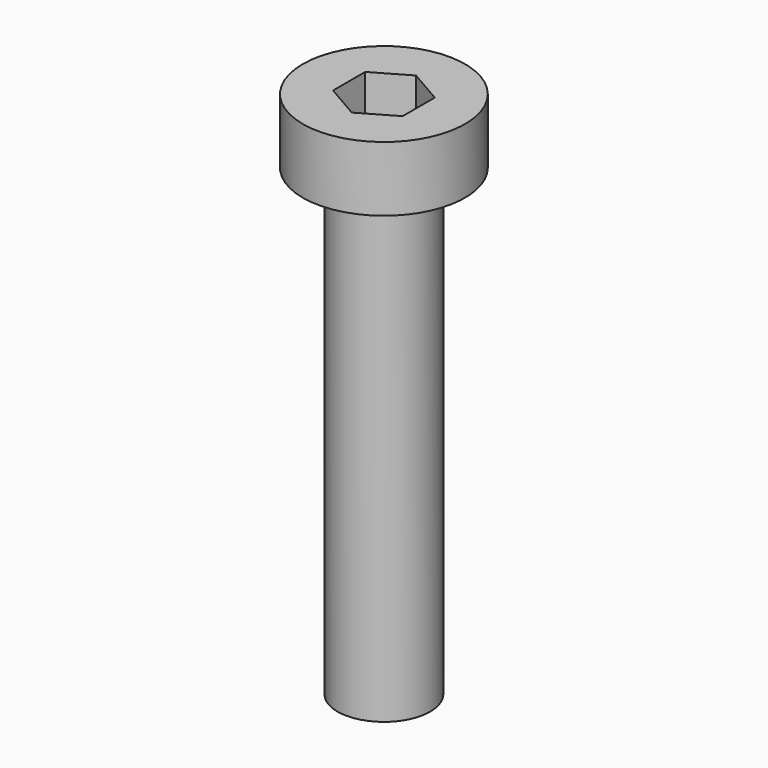
from build123d import *

# Parameters (mm, degrees)
CYLINDER024_R                      = 2
CYLINDER024_DEPTH                  = 22.8
CYLINDER023_R                      = 3.5
CYLINDER023_DEPTH                  = 2.8
FUSION001018017022_PLACEMENT_ANGLE = 180
POCKET002018004005005_DEPTH        = 2.5


with BuildPart() as cylinder024:
    # Cylinder024 → Cylinder024 (new body)
    with BuildSketch(Plane.XY):
        Circle(CYLINDER024_R)
    extrude(amount=CYLINDER024_DEPTH)


with BuildPart() as obj1:
    # Cylinder023 → Cylinder023 (new body)
    with BuildSketch(Plane.XY):
        Circle(CYLINDER023_R)
    extrude(amount=CYLINDER023_DEPTH)

    # Fusion001018017022: union Cylinder024
    add(cylinder024.part)


with BuildPart() as obj1_1:
    # Fusion001018017022 placement: moved
    add(obj1.part.rotate(Axis((0, 0, 0), (0, 1, 0)), FUSION001018017022_PLACEMENT_ANGLE))

    # Sketch023 → Pocket002018004005005 (cut)
    with BuildSketch(Plane(origin=(0, 0, 0), x_dir=(-1, 0, 0), z_dir=(0, 0, 1))):
        Polygon((1.5, -0.866025), (1.5, 0.866025), (0, 1.732051), (-1.5, 0.866025), (-1.5, -0.866025), (0, -1.732051), align=None)
    extrude(amount=-POCKET002018004005005_DEPTH, mode=Mode.SUBTRACT)


solid = obj1_1.part
